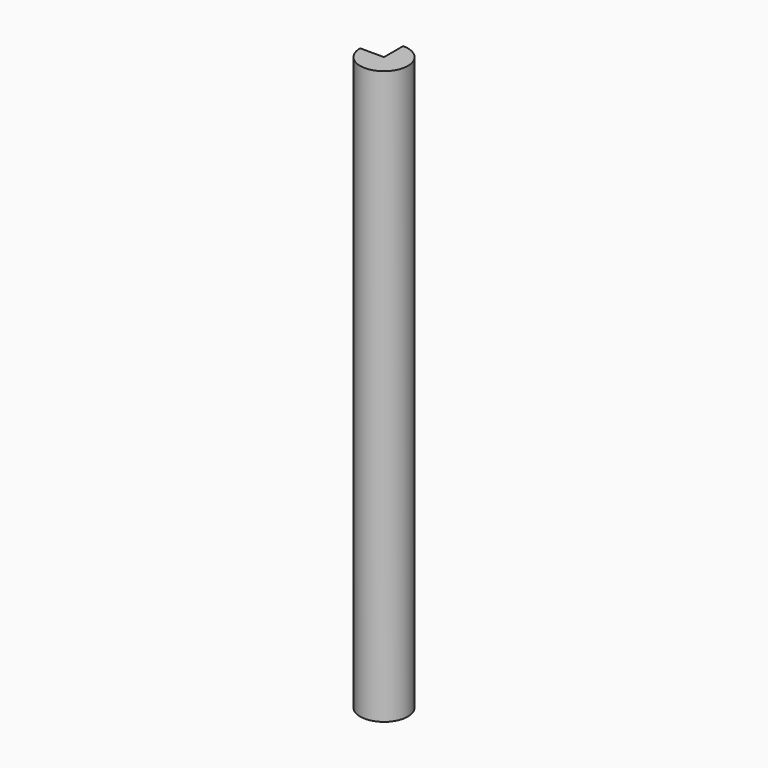
from build123d import *

# Parameters (mm, degrees)
F0_R     = 12.7
F1_DEPTH = 304.8
F3_DEPTH = 76.2
F5_DEPTH = 76.2


with BuildPart() as f1:
    # F0 (on Top) → F1 (new body)
    with BuildSketch(Plane.XY):
        with Locations((-10.884415, 9.929642)):
            Circle(F0_R)
    extrude(amount=F1_DEPTH)

    # F2 (on face) → F3 (cut)
    with BuildSketch(Plane.XY.offset(304.8)):
        with BuildLine():
            ThreePointArc((1.815585, 9.929642), (1.714362, 11.529897), (1.412307, 13.104642))
            Line((1.412307, 13.104642), (-4.937693, 13.104642))
            Line((-4.937693, 13.104642), (-4.937693, 6.754642))
            Line((-4.937693, 6.754642), (1.412307, 6.754642))
            ThreePointArc((1.412307, 6.754642), (1.714362, 8.329388), (1.815585, 9.929642))
        make_face()
    extrude(amount=F3_DEPTH, mode=Mode.SUBTRACT)

    # F4 (on face) → F5 (cut)
    with BuildSketch(Plane.XY.offset(304.8)):
        with BuildLine():
            Line((-23.584415, 9.929642), (-10.884415, 9.929642))
            Line((-10.884415, 9.929642), (-10.884415, 22.629642))
            ThreePointArc((-10.884415, 22.629642), (-19.864671, 18.909898), (-23.584415, 9.929642))
        make_face()
    extrude(amount=-F5_DEPTH, mode=Mode.SUBTRACT)


solid = f1.part
